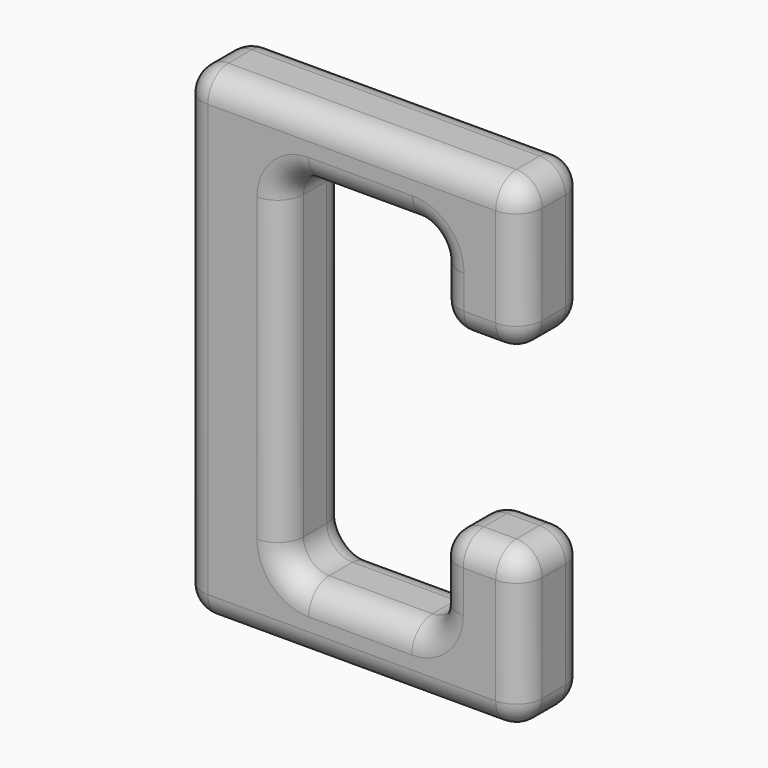
from build123d import *

# Parameters (mm, degrees)
F1_DEPTH = 25
F2_R     = 8


with BuildPart() as f1:
    # F0 (on Front) → F1 (new body)
    with BuildSketch(Plane.XZ):
        Polygon((-18.774835, 75.099342), (-50.066225, 75.099342), (-50.066225, -74.838579), (-18.774835, -74.838579), (55.28146, -74.838579), (55.28146, -54.759935), (55.28146, -25.815399), (29.205298, -25.815399), (29.205298, -54.759935), (-18.774835, -54.759935), (-18.774835, 54.759935), (29.466061, 54.759935), (29.466061, 28.423015), (55.28146, 28.423015), (55.28146, 54.759935), (55.28146, 75.099342), align=None)
    extrude(amount=F1_DEPTH)

    # F2
    f2_edges = [f1.edges().sort_by_distance(p)[0] for p in [
        (2.607618, -25, 75.099342),
        (-50.066225, -25, 0.130381),
        (2.607618, -25, -74.838579),
        (55.28146, -25, -50.326989),
        (42.243379, -25, -25.815399),
        (29.205298, -25, -40.287667),
        (5.215231, -25, -54.759935),
        (-18.774835, -25, 0),
        (5.345613, -25, 54.759935),
        (29.466061, -25, 41.591475),
        (42.373761, -25, 28.423015),
        (55.28146, -25, 51.761178),
        (-18.774835, -12.5, -54.759935),
        (29.205298, -12.5, -54.759935),
        (29.466061, -12.5, 54.759935),
        (-18.774835, -12.5, 54.759935),
        (55.28146, -12.5, 28.423015),
        (29.466061, -12.5, 28.423015),
        (55.28146, -12.5, 75.099342),
        (55.28146, -12.5, -25.815399),
        (29.205298, -12.5, -25.815399),
        (55.28146, -12.5, -74.838579),
        (-50.066225, -12.5, -74.838579),
        (-50.066225, -12.5, 75.099342),
        (-50.066225, 0, 0.130381),
        (2.607618, 0, -74.838579),
        (55.28146, 0, -50.326989),
        (42.243379, 0, -25.815399),
        (29.205298, 0, -40.287667),
        (5.215231, 0, -54.759935),
        (-18.774835, 0, 0),
        (5.345613, 0, 54.759935),
        (29.466061, 0, 41.591475),
        (42.373761, 0, 28.423015),
        (55.28146, 0, 51.761178),
        (2.607618, 0, 75.099342),
    ]]
    fillet(f2_edges, radius=F2_R)


solid = f1.part
